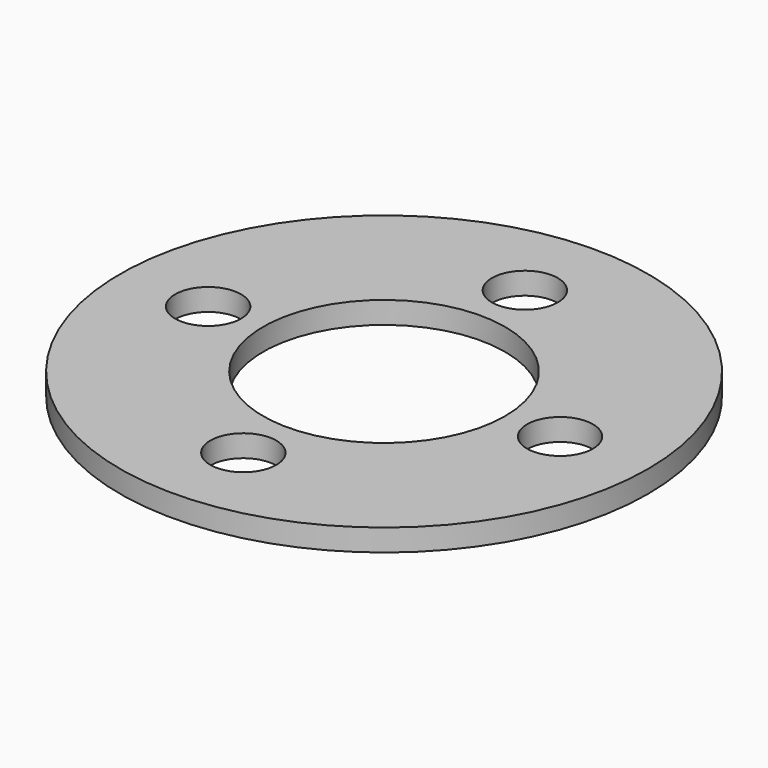
from build123d import *

# Parameters (mm, degrees)
SKETCH_R   = 12
SKETCH_R_2 = 1.5
SKETCH_R_3 = 5.5
PAD_DEPTH  = 1


with BuildPart() as part:
    # Sketch → Pad (new body)
    with BuildSketch(Plane.XY):
        Circle(SKETCH_R)
        with Locations((0, 8)):
            Circle(SKETCH_R_2, mode=Mode.SUBTRACT)
        with Locations((-8, 0)):
            Circle(SKETCH_R_2, mode=Mode.SUBTRACT)
        with Locations((0, -8)):
            Circle(SKETCH_R_2, mode=Mode.SUBTRACT)
        with Locations((8, 0)):
            Circle(SKETCH_R_2, mode=Mode.SUBTRACT)
        Circle(SKETCH_R_3, mode=Mode.SUBTRACT)
    extrude(amount=PAD_DEPTH)


solid = part.part
